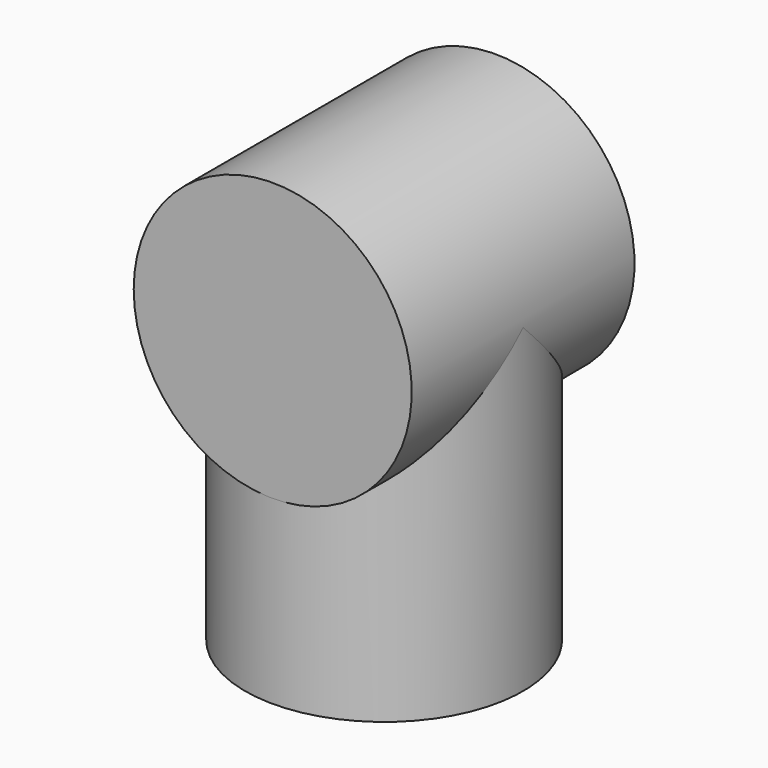
from build123d import *

# Parameters (mm, degrees)
CYLINDER048_R             = 13.9827
CYLINDER048_DEPTH         = 28.0162
CYLINDER047_R             = 13.9827
CYLINDER047_DEPTH         = 32.1945
FUSION019_PLACEMENT_ANGLE = 180


with BuildPart() as cylinder048:
    # Cylinder048 → Cylinder048 (new body)
    with BuildSketch(Plane.XZ.offset(-14.0081)):
        Circle(CYLINDER048_R)
    extrude(amount=CYLINDER048_DEPTH)


with BuildPart() as middle_outer_slip_l:
    # Cylinder047 → Cylinder047 (new body)
    with BuildSketch(Plane.XY):
        Circle(CYLINDER047_R)
    extrude(amount=CYLINDER047_DEPTH)

    # Fusion019: union Cylinder048
    add(cylinder048.part)


with BuildPart() as middle_outer_slip_l_1:
    # Fusion019 placement: moved
    add(middle_outer_slip_l.part.moved(Location((0, -50, 406))).rotate(Axis((0, -50, 406), (0, 1, 0)), FUSION019_PLACEMENT_ANGLE))


solid = middle_outer_slip_l_1.part
